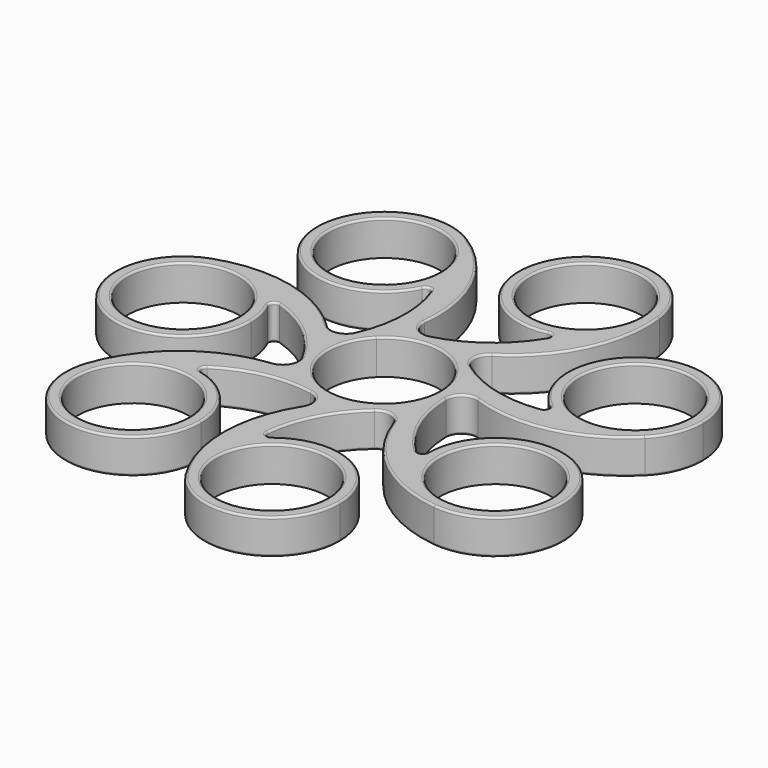
from build123d import *

# Parameters (mm, degrees)
F0_R     = 11.075
F1_DEPTH = 7
F2_R     = 1
F3_R     = 3
F4_R     = 0.4


with BuildPart() as f1:
    # F0 (on Top) → F1 (new body)
    with BuildSketch(Plane.XY):
        with BuildLine():
            ThreePointArc((-6.3023028787, 11.9386338593), (-8.0139226951, 10.8640251766), (-9.545941546, 9.545941546))
            ThreePointArc((-9.545941546, 9.545941546), (-10.6861101376, 8.2496696981), (-11.6515304781, 6.8184923201))
            ThreePointArc((-11.6515304781, 6.8184923201), (-12.6418340955, 4.7364576111), (-13.2634213819, 2.5162776568))
            ThreePointArc((-13.2634213819, 2.5162776568), (-13.4449708917, -1.2176853949), (-12.5955223879, -4.8582729211))
            ThreePointArc((-12.5955223879, -4.8582729211), (-11.5851663111, -6.9306508745), (-10.2369130601, -8.800886944))
            ThreePointArc((-10.2369130601, -8.800886944), (-7.4307774598, -11.2709159496), (-4.0548290378, -12.8766595619))
            ThreePointArc((-4.0548290378, -12.8766595619), (-1.8046320001, -13.3788378921), (0.498199591, -13.4908041705))
            ThreePointArc((0.498199591, -13.4908041705), (4.1789429596, -12.8369169095), (7.5392332812, -11.1986589167))
            ThreePointArc((7.5392332812, -11.1986589167), (9.3348270148, -9.7524870984), (10.8581577886, -8.0218706944))
            ThreePointArc((10.8581577886, -8.0218706944), (12.6418340955, -4.7364576111), (13.4560991671, -1.0878396962))
            ThreePointArc((13.4560991671, -1.0878396962), (13.4890203268, -0.5443625831), (13.5, 0))
            ThreePointArc((13.5, 0), (13.3849350582, 1.7588386762), (13.0417017054, 3.4876950309))
            ThreePointArc((13.0417017054, 3.4876950309), (11.5851663111, 6.9306508745), (9.2402479258, 9.8421450035))
            ThreePointArc((9.2402479258, 9.8421450035), (7.4307774598, 11.2709159496), (5.4045782358, 12.370955262))
            ThreePointArc((5.4045782358, 12.370955262), (1.8046320001, 13.3788378921), (-1.9336984703, 13.3607937723))
            ThreePointArc((-1.9336984703, 13.3607937723), (-4.1789429596, 12.8369169095), (-6.3023028787, 11.9386338593))
        make_face()
        with BuildLine():
            ThreePointArc((-7.8312076016, 7.8312076016), (4.2382190134, 10.2319658226), (11.075, 0))
            ThreePointArc((11.075, 0), (-4.2382190134, -10.2319658226), (-7.8312076016, 7.8312076016))
        make_face(mode=Mode.SUBTRACT)
        with BuildLine():
            ThreePointArc((-12.5955223879, -4.8582729211), (-13.4449708917, -1.2176853949), (-13.2634213819, 2.5162776568))
            ThreePointArc((-13.2634213819, 2.5162776568), (-27.1295684728, 12.9154210912), (-44.4611006732, 12.7416082495))
            ThreePointArc((-44.4611006732, 12.7416082495), (-35.9278612676, 12.8711959873), (-29.0219796063, 7.8570394066))
            ThreePointArc((-29.0219796063, 7.8570394066), (-19.3626960968, 3.3674898487), (-12.5955223879, -4.8582729211))
        make_face()
        with BuildLine():
            ThreePointArc((-11.6515304781, 6.8184923201), (-10.6861101376, 8.2496696981), (-9.545941546, 9.545941546))
            ThreePointArc((-9.545941546, 9.545941546), (-8.0139226951, 10.8640251766), (-6.3023028787, 11.9386338593))
            ThreePointArc((-6.3023028787, 11.9386338593), (-6.8173264532, 29.2633840749), (-17.7592523825, 42.7053510544))
            ThreePointArc((-17.7592523825, 42.7053510544), (-13.1246738385, 37.8045460846), (-11.4395920743, 31.2732592987))
            ThreePointArc((-11.4395920743, 31.2732592987), (-11.5683146276, 29.4134368765), (-11.9520275473, 27.5890812826))
            ThreePointArc((-11.9520275473, 27.5890812826), (-9.4396339722, 17.2379609725), (-11.6515304781, 6.8184923201))
        make_face()
        with BuildLine():
            ThreePointArc((14.1180450318, 26.5459822381), (7.5916650669, 18.1278958936), (-1.9336984703, 13.3607937723))
            ThreePointArc((-1.9336984703, 13.3607937723), (1.8046320001, 13.3788378921), (5.4045782358, 12.370955262))
            ThreePointArc((5.4045782358, 12.370955262), (18.6285014338, 23.575421986), (22.315675175, 40.5110934849))
            ThreePointArc((22.315675175, 40.5110934849), (22.3795299975, 39.7553016472), (22.4008373583, 38.9971164873))
            ThreePointArc((22.4008373583, 38.9971164873), (20.1409953552, 31.5198945297), (14.1180450318, 26.5459822381))
        make_face()
        with BuildLine():
            ThreePointArc((29.5569417463, 5.513217129), (18.9062854689, 5.3671554652), (9.2402479258, 9.8421450035))
            ThreePointArc((9.2402479258, 9.8421450035), (11.5851663111, 6.9306508745), (13.0417017054, 3.4876950309))
            ThreePointArc((13.0417017054, 3.4876950309), (30.046687789, 0.1346862906), (45.5864441689, 7.8111562456))
            ThreePointArc((45.5864441689, 7.8111562456), (37.9544871343, 3.991967908), (29.5569417463, 5.513217129))
        make_face()
        with BuildLine():
            ThreePointArc((22.7388584741, -19.6711129274), (15.9840872949, -11.4351624985), (13.4560991671, -1.0878396962))
            ThreePointArc((13.4560991671, -1.0878396962), (12.6418340955, -4.7364576111), (10.8581577886, -8.0218706944))
            ThreePointArc((10.8581577886, -8.0218706944), (18.8391053983, -23.4074709287), (34.5296909096, -30.7707409652))
            ThreePointArc((34.5296909096, -30.7707409652), (26.7852818505, -27.1850616625), (22.7388584741, -19.6711129274))
        make_face()
        with BuildLine():
            ThreePointArc((7.5392332812, -11.1986589167), (4.1789429596, -12.8369169095), (0.498199591, -13.4908041705))
            ThreePointArc((0.498199591, -13.4908041705), (-6.554707605, -29.3233251133), (-2.528623882, -46.1816426205))
            ThreePointArc((-2.528623882, -46.1816426205), (-4.5537869869, -37.891185327), (-1.2020490173, -30.0426937319))
            ThreePointArc((-1.2020490173, -30.0426937319), (1.0255453719, -19.6265698661), (7.5392332812, -11.1986589167))
        make_face()
        with BuildLine():
            ThreePointArc((-4.0548290378, -12.8766595619), (-7.4307774598, -11.2709159496), (-10.2369130601, -8.800886944))
            ThreePointArc((-10.2369130601, -8.800886944), (-27.0126920901, -13.1581174008), (-37.6828333159, -26.8168254487))
            ThreePointArc((-37.6828333159, -26.8168254487), (-32.4637613429, -20.0644736009), (-24.2377890813, -17.791513397))
            ThreePointArc((-24.2377890813, -17.791513397), (-14.7052531334, -13.0387698154), (-4.0548290378, -12.8766595619))
        make_face()
        with BuildLine():
            ThreePointArc((-24.2377890813, -17.791513397), (-32.4637613429, -20.0644736009), (-37.6828333159, -26.8168254487))
            ThreePointArc((-37.6828333159, -26.8168254487), (-27.199707474, -44.5827250423), (-11.4395920743, -31.2732592987))
            ThreePointArc((-11.4395920743, -31.2732592987), (-15.148669227, -21.9787539436), (-24.2377890813, -17.791513397))
        make_face()
        with Locations((-24.9395920743, -31.2732592987)):
            Circle(F0_R, mode=Mode.SUBTRACT)
        with BuildLine():
            ThreePointArc((-29.0219796063, 7.8570394066), (-35.9278612676, 12.8711959873), (-44.4611006732, 12.7416082495))
            ThreePointArc((-44.4611006732, 12.7416082495), (-47.8110543754, -11.010786963), (-26.5, 0))
            ThreePointArc((-26.5, 0), (-27.1459485898, 4.1259377531), (-29.0219796063, 7.8570394066))
        make_face()
        with Locations((-40, 0)):
            Circle(F0_R, mode=Mode.SUBTRACT)
        with BuildLine():
            ThreePointArc((-11.4395920743, 31.2732592987), (-13.1246738385, 37.8045460846), (-17.7592523825, 42.7053510544))
            ThreePointArc((-17.7592523825, 42.7053510544), (-37.5416352857, 26.4319261249), (-11.9520275473, 27.5890812826))
            ThreePointArc((-11.9520275473, 27.5890812826), (-11.5683146276, 29.4134368765), (-11.4395920743, 31.2732592987))
        make_face()
        with Locations((-24.9395920743, 31.2732592987)):
            Circle(F0_R, mode=Mode.SUBTRACT)
        with BuildLine():
            ThreePointArc((22.315675175, 40.5110934849), (-2.741514759, 45.831268752), (14.1180450318, 26.5459822381))
            ThreePointArc((14.1180450318, 26.5459822381), (20.1409953552, 31.5198945297), (22.4008373583, 38.9971164873))
            ThreePointArc((22.4008373583, 38.9971164873), (22.3795299975, 39.7553016472), (22.315675175, 40.5110934849))
        make_face()
        with Locations((8.9008373583, 38.9971164873)):
            Circle(F0_R, mode=Mode.SUBTRACT)
        with BuildLine():
            ThreePointArc((49.5387547161, 17.3553495647), (29.1559673117, 28.9690155469), (29.5569417463, 5.513217129))
            ThreePointArc((29.5569417463, 5.513217129), (37.9544871343, 3.991967908), (45.5864441689, 7.8111562456))
            ThreePointArc((45.5864441689, 7.8111562456), (48.5116013762, 12.1902652291), (49.5387547161, 17.3553495647))
        make_face()
        with Locations((36.0387547161, 17.3553495647)):
            Circle(F0_R, mode=Mode.SUBTRACT)
        with BuildLine():
            ThreePointArc((49.5387547161, -17.3553495647), (34.8765583616, -3.905468538), (22.7388584741, -19.6711129274))
            ThreePointArc((22.7388584741, -19.6711129274), (26.7852818505, -27.1850616625), (34.5296909096, -30.7707409652))
            ThreePointArc((34.5296909096, -30.7707409652), (45.0353551466, -27.4206950975), (49.5387547161, -17.3553495647))
        make_face()
        with Locations((36.0387547161, -17.3553495647)):
            Circle(F0_R, mode=Mode.SUBTRACT)
        with BuildLine():
            ThreePointArc((-1.2020490173, -30.0426937319), (-4.5537869869, -37.891185327), (-2.528623882, -46.1816426205))
            ThreePointArc((-2.528623882, -46.1816426205), (12.6393045078, -51.9691580911), (22.4008373583, -38.9971164873))
            ThreePointArc((22.4008373583, -38.9971164873), (13.689419295, -26.3749343053), (-1.2020490173, -30.0426937319))
        make_face()
        with Locations((8.9008373583, -38.9971164873)):
            Circle(F0_R, mode=Mode.SUBTRACT)
    extrude(amount=F1_DEPTH)

    # F2
    f2_edges = [f1.edges().sort_by_distance(p)[0] for p in [
        (-29.02198, 7.857039, 3.5),
        (-11.952028, 27.589081, 3.5),
        (14.118045, 26.545982, 3.5),
        (29.556942, 5.513217, 3.5),
        (22.738858, -19.671113, 3.5),
        (-24.237789, -17.791513, 3.5),
        (-1.202049, -30.042694, 3.5),
    ]]
    fillet(f2_edges, radius=F2_R)

    # F3
    f3_edges = [f1.edges().sort_by_distance(p)[0] for p in [
        (-13.263421, 2.516278, 3.5),
        (-6.302303, 11.938634, 3.5),
        (5.404578, 12.370955, 3.5),
        (13.041702, 3.487695, 3.5),
        (10.858158, -8.021871, 3.5),
        (-10.236913, -8.800887, 3.5),
        (0.4982, -13.490804, 3.5),
    ]]
    fillet(f3_edges, radius=F3_R)

    # F4
    f4_edges = [f1.edges().sort_by_distance(p)[0] for p in [
        (-29.477928, 13.569314, 7),
        (-13.693242, 5.431868, 7),
        (-45.182298, -12.465704, 7),
        (-9.447666, 16.17904, 7),
        (-27.67032, 6.914739, 7),
        (-11.846001, 25.944796, 7),
        (-18.539806, 2.700984, 7),
        (-37.916782, 27.552703, 7),
        (-12.784402, -7.319093, 7),
        (-7.770271, 31.507101, 7),
        (-28.988104, -14.586443, 7),
        (-4.290791, 14.092522, 7),
        (-18.424622, -43.097183, 7),
        (6.75876, 17.473949, 7),
        (-22.658323, -17.322258, 7),
        (12.898598, 25.437893, 7),
        (-13.671094, -12.810968, 7),
        (-2.099156, 46.823364, 7),
        (-2.248647, -14.558628, 7),
        (19.788559, 25.719398, 7),
        (-6.669647, -31.758311, 7),
        (8.342713, 12.141219, 7),
        (22.20717, -41.275603, 7),
        (17.875701, 5.610618, 7),
        (-0.584147, -28.515241, 7),
        (27.930289, 5.775737, 7),
        (1.49223, -18.676, 7),
        (35.299177, 30.835076, 7),
        (9.980385, -10.835219, 7),
        (32.4462, 0.564464, 7),
        (20.671191, -25.015523, 7),
        (14.693984, 1.047331, 7),
        (46.11651, -8.372653, 7),
        (15.531875, -10.477623, 7),
        (21.929904, -18.235666, 7),
        (7.831208, -7.831208, 7),
        (-36.014592, -31.273259, 7),
        (-51.075, 0, 7),
        (-36.014592, 31.273259, 7),
        (-2.174163, 38.997116, 7),
        (24.963755, 17.35535, 7),
        (24.963755, -17.35535, 7),
        (-2.174163, -38.997116, 7),
        (-18.424622, -43.097183, 0),
    ]]
    fillet(f4_edges, radius=F4_R)


solid = f1.part
